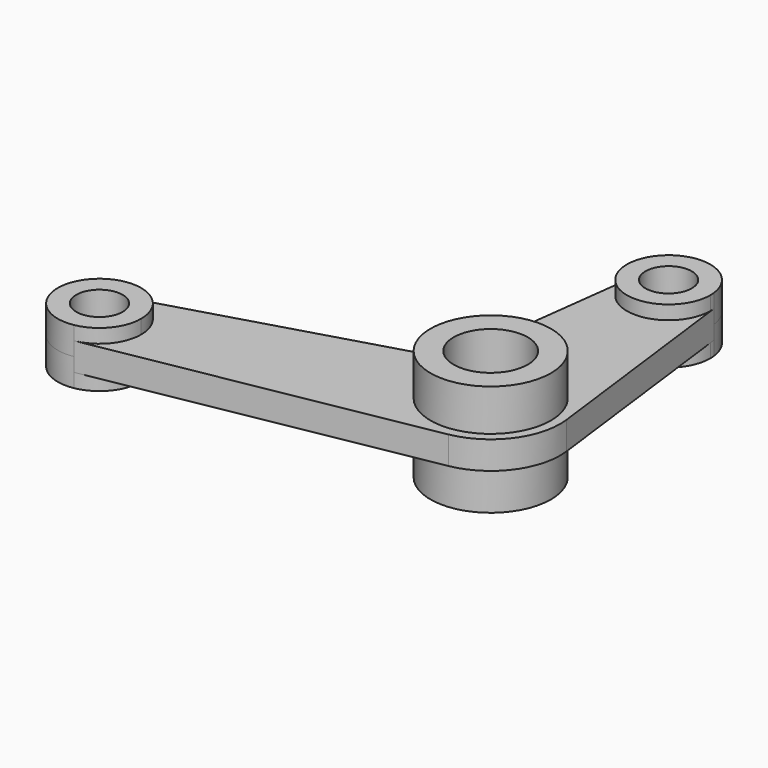
from build123d import *

# Parameters (mm, degrees)
F0_R     = 41.275
F0_R_2   = 25.4
F1_DEPTH = 38.1
F0_R_3   = 15.875
F2_DEPTH = 19.05
F3_DEPTH = 9.525


with BuildPart() as f1:
    # F0 (on Top) → F1 (new body, symmetric)
    with BuildSketch(Plane.XY):
        Circle(F0_R)
        Circle(F0_R_2, mode=Mode.SUBTRACT)
    extrude(amount=F1_DEPTH, both=True)



with BuildPart() as f2:
    # F0 (on Top) → F2 (new body, symmetric)
    with BuildSketch(Plane.XY):
        with BuildLine():
            ThreePointArc((-28.3508788926, 155.971875), (-1.7894497259, 123.8810853173), (28.575, 152.4))
            ThreePointArc((28.575, 152.4), (28.5189146827, 154.1894497259), (28.3508788926, 155.971875))
            ThreePointArc((28.3508788926, 155.971875), (0, 180.975), (-28.3508788926, 155.971875))
        make_face()
        with Locations((0, 152.4)):
            Circle(F0_R_3, mode=Mode.SUBTRACT)
    extrude(amount=F2_DEPTH, both=True)


with BuildPart() as f2b:
    # F0 (on Top) → F2, piece 2 (new body, symmetric)
    with BuildSketch(Plane.XY):
        with BuildLine():
            ThreePointArc((-228.8769827763, -31.7531753778), (-248.6182816065, -65.7437164034), (-215.7407249669, -87.287672125))
            ThreePointArc((-215.7407249669, -87.287672125), (-198.8857315955, -77.4916672845), (-192.2356438897, -59.1660337104))
            ThreePointArc((-192.2356438897, -59.1660337104), (-203.6928900751, -36.285624419), (-228.8769827763, -31.7531753778))
        make_face()
        with Locations((-220.8106438897, -59.1660337104)):
            Circle(F0_R_3, mode=Mode.SUBTRACT)
    extrude(amount=F2_DEPTH, both=True)


with BuildPart() as f1_1:
    add(f1.part)

    add(f2.part)  # F3 merges F2

    add(f2b.part)  # F3 merges F2b
    # F0 (on Top) → F3 (join, symmetric)
    with BuildSketch(Plane.XY):
        with BuildLine():
            ThreePointArc((28.3508788926, 155.971875), (28.5189146827, 154.1894497259), (28.575, 152.4))
            ThreePointArc((28.575, 152.4), (-1.7894497259, 123.8810853173), (-28.3508788926, 155.971875))
            Line((-28.3508788926, 155.971875), (-43.1138110854, 38.7947333871))
            ThreePointArc((-43.1138110854, 38.7947333871), (-48.9692257639, 25.5101831903), (-61.144513313, 17.6027482025))
            Line((-61.144513313, 17.6027482025), (-228.8769827763, -31.7531753778))
            ThreePointArc((-228.8769827763, -31.7531753778), (-203.6928900751, -36.285624419), (-192.2356438897, -59.1660337104))
            ThreePointArc((-192.2356438897, -59.1660337104), (-198.8857315955, -77.4916672845), (-215.7407249669, -87.287672125))
            Line((-215.7407249669, -87.287672125), (8.4456997402, -46.8701480785))
            ThreePointArc((8.4456997402, -46.8701480785), (38.3812204043, -28.1961441562), (47.251464821, 5.953125))
            Line((47.251464821, 5.953125), (28.3508788926, 155.971875))
        make_face()
        Circle(F0_R, mode=Mode.SUBTRACT)
    extrude(amount=F3_DEPTH, both=True)


solid = f1_1.part
